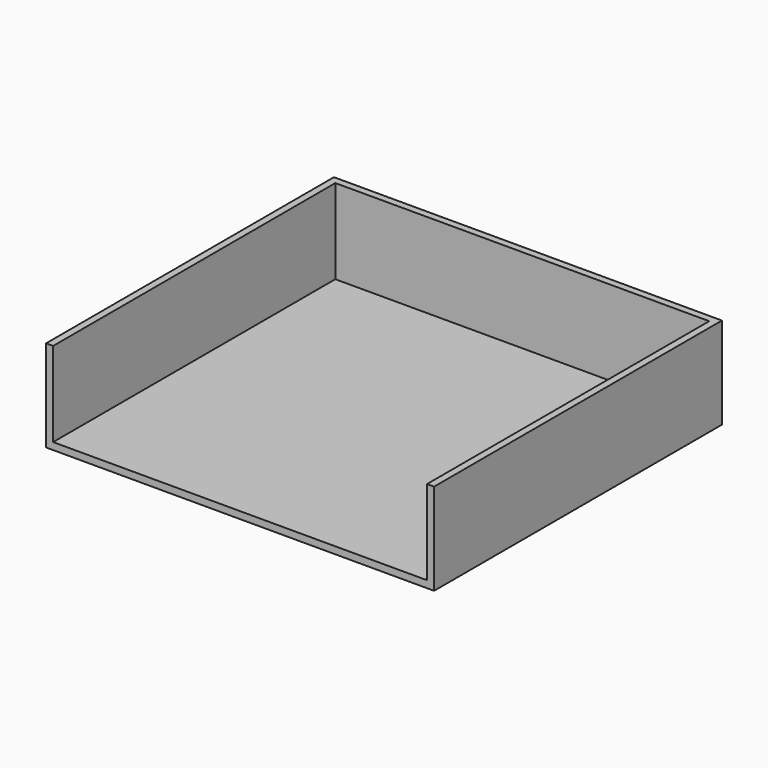
from build123d import *

# Parameters (mm, degrees)
F0_W     = 550
F0_H     = 510
F1_DEPTH = 10
F3_DEPTH = 120


with BuildPart() as f1:
    # F0 (on Top) → F1 (new body)
    with BuildSketch(Plane.XY):
        Rectangle(F0_W, F0_H)
    extrude(amount=F1_DEPTH)

    # F2 (on face) → F3 (join)
    with BuildSketch(Plane.XY.offset(10)):
        Polygon((-275, 255), (-275, -255), (-265, -255), (-265, 245), (265, 245), (265, -255), (275, -255), (275, 255), align=None)
    extrude(amount=F3_DEPTH)


solid = f1.part
